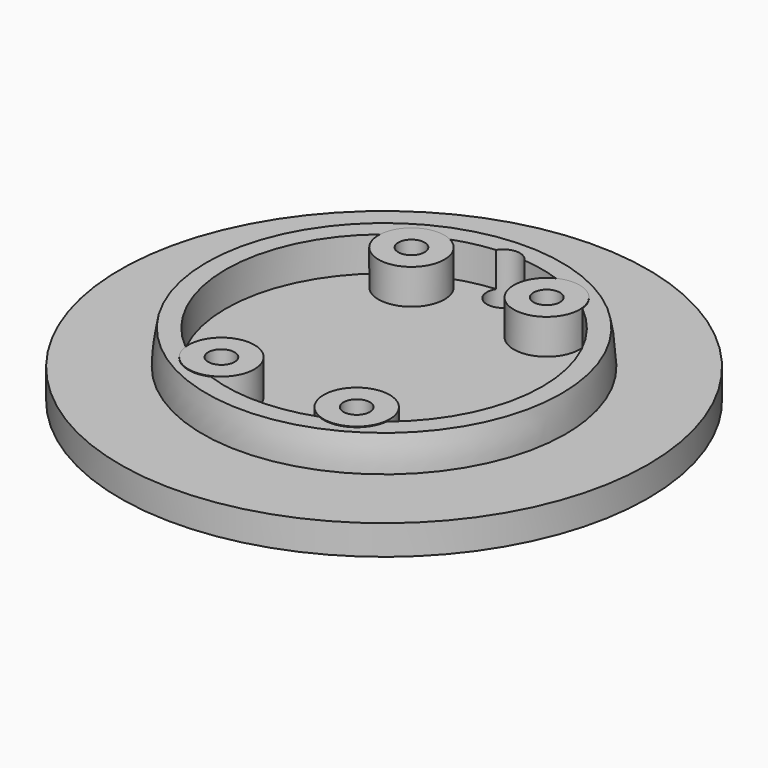
from build123d import *

# Parameters (mm, degrees)
CYLINDER165_R     = 2.5
CYLINDER165_DEPTH = 60
CYLINDER161_R     = 2
CYLINDER161_DEPTH = 10
CYLINDER162_R     = 2
CYLINDER162_DEPTH = 10
CYLINDER163_R     = 2
CYLINDER163_DEPTH = 10
CYLINDER164_R     = 2
CYLINDER164_DEPTH = 10
CYLINDER156_R     = 5.5
CYLINDER156_DEPTH = 1
CYLINDER157_R     = 5
CYLINDER157_DEPTH = 5.82
CYLINDER158_R     = 5
CYLINDER158_DEPTH = 5.82
CYLINDER159_R     = 5
CYLINDER159_DEPTH = 5.82
CYLINDER160_R     = 5
CYLINDER160_DEPTH = 5.82
CYLINDER154_R     = 40
CYLINDER154_DEPTH = 4.5
CYLINDER155_R     = 24
CYLINDER155_DEPTH = 7


with BuildPart() as wirecut004:
    # Cylinder165 → Cylinder165 (new body)
    with BuildSketch(Plane(origin=(134, 32.6, 20), x_dir=(1, 0, 0), z_dir=(0, 0, 1))):
        Circle(CYLINDER165_R)
    extrude(amount=CYLINDER165_DEPTH)


with BuildPart() as cylinder161:
    # Cylinder161 → Cylinder161 (new body)
    with BuildSketch(Plane(origin=(0, -21, 0), x_dir=(1, 0, 0), z_dir=(0, 0, 1))):
        Circle(CYLINDER161_R)
    extrude(amount=CYLINDER161_DEPTH)


with BuildPart() as m3heatsetcuts025:
    # Cylinder162 → Cylinder162 (new body)
    with BuildSketch(Plane(origin=(20.5, -21, 0), x_dir=(1, 0, 0), z_dir=(0, 0, 1))):
        Circle(CYLINDER162_R)
    extrude(amount=CYLINDER162_DEPTH)

    # Fusion103: union Cylinder161
    add(cylinder161.part)


with BuildPart() as m3heatsetcuts025_1:
    # Fusion103 placement: moved
    add(m3heatsetcuts025.part.moved(Location((-5, 39, 70))))


with BuildPart() as cylinder163:
    # Cylinder163 → Cylinder163 (new body)
    with BuildSketch(Plane(origin=(0, -21, 0), x_dir=(1, 0, 0), z_dir=(0, 0, 1))):
        Circle(CYLINDER163_R)
    extrude(amount=CYLINDER163_DEPTH)


with BuildPart() as lightmodulecut005:
    # Cylinder164 → Cylinder164 (new body)
    with BuildSketch(Plane(origin=(20.5, -21, 0), x_dir=(1, 0, 0), z_dir=(0, 0, 1))):
        Circle(CYLINDER164_R)
    extrude(amount=CYLINDER164_DEPTH)

    # Fusion104: union Cylinder163
    add(cylinder163.part)


with BuildPart() as lightmodulecut005_1:
    # Fusion104 placement: moved
    add(lightmodulecut005.part.moved(Location((-5, 3, 70))))

    # Fusion102: union m3HeatSetCuts025
    add(m3heatsetcuts025_1.part)


with BuildPart() as lightmodulecut005_2:
    # Fusion102 placement: moved
    add(lightmodulecut005_1.part.moved(Location((128.75, 10, -1))))

    # Fusion105: union WireCut004
    add(wirecut004.part)


with BuildPart() as cylinder156:
    # Cylinder156 → Cylinder156 (new body)
    with BuildSketch(Plane(origin=(134, 32.6, 65), x_dir=(1, 0, 0), z_dir=(0, 0, 1))):
        Circle(CYLINDER156_R)
    extrude(amount=CYLINDER156_DEPTH)


with BuildPart() as cylinder157:
    # Cylinder157 → Cylinder157 (new body)
    with BuildSketch(Plane(origin=(0, -21, 0), x_dir=(1, 0, 0), z_dir=(0, 0, 1))):
        Circle(CYLINDER157_R)
    extrude(amount=CYLINDER157_DEPTH)


with BuildPart() as m3heatsetcuts021:
    # Cylinder158 → Cylinder158 (new body)
    with BuildSketch(Plane(origin=(20.5, -21, 0), x_dir=(1, 0, 0), z_dir=(0, 0, 1))):
        Circle(CYLINDER158_R)
    extrude(amount=CYLINDER158_DEPTH)

    # Fusion097: union Cylinder157
    add(cylinder157.part)


with BuildPart() as m3heatsetcuts021_1:
    # Fusion097 placement: moved
    add(m3heatsetcuts021.part.moved(Location((-5, 39, 70))))


with BuildPart() as cylinder159:
    # Cylinder159 → Cylinder159 (new body)
    with BuildSketch(Plane(origin=(0, -21, 0), x_dir=(1, 0, 0), z_dir=(0, 0, 1))):
        Circle(CYLINDER159_R)
    extrude(amount=CYLINDER159_DEPTH)


with BuildPart() as m3heatsetcuts023:
    # Cylinder160 → Cylinder160 (new body)
    with BuildSketch(Plane(origin=(20.5, -21, 0), x_dir=(1, 0, 0), z_dir=(0, 0, 1))):
        Circle(CYLINDER160_R)
    extrude(amount=CYLINDER160_DEPTH)

    # Fusion098: union Cylinder159
    add(cylinder159.part)


with BuildPart() as m3heatsetcuts023_1:
    # Fusion098 placement: moved
    add(m3heatsetcuts023.part.moved(Location((-5, 3, 70))))

    # Fusion099: union m3HeatSetCuts021
    add(m3heatsetcuts021_1.part)


with BuildPart() as m3heatsetcuts023_2:
    # Fusion099 placement: moved
    add(m3heatsetcuts023_1.part.moved(Location((128.75, 10, -1))))


with BuildPart() as base014:
    # Cylinder154 → Cylinder154 (new body)
    with BuildSketch(Plane(origin=(136, 0, 65), x_dir=(1, 0, 0), z_dir=(0, 0, 1))):
        Circle(CYLINDER154_R)
    extrude(amount=CYLINDER154_DEPTH)


with BuildPart() as basecut003:
    # Cylinder155 → Cylinder155 (new body)
    with BuildSketch(Plane(origin=(5, 0, 74), x_dir=(1, 0, 0), z_dir=(0, 0, 1))):
        Circle(CYLINDER155_R)
    extrude(amount=CYLINDER155_DEPTH)


with BuildPart() as lightmodule009:
    # Sphere005 → Sphere005 (revolve)
    with BuildSketch(Plane(origin=(5, 0, 74), x_dir=(1, 0, 0), z_dir=(0, -1, 0))):
        with BuildLine():
            ThreePointArc((27.5, 0), (27.349352, 2.874533), (26.899059, 5.717571))
            Line((26.899059, 5.717571), (0, 5.717571))
            Line((0, 5.717571), (0, 0))
            Line((0, 0), (27.5, 0))
        make_face()
    revolve(axis=Axis((5, 0, 74), (0, 0, 1)))

    # Cut053: cut baseCut003
    add(basecut003.part, mode=Mode.SUBTRACT)


with BuildPart() as lightmodule009_1:
    # Cut053 placement: moved
    add(lightmodule009.part.moved(Location((131, 0, -5))))

    # Fusion100: union base014
    add(base014.part)


with BuildPart() as lightmodule009_2:
    # Fusion100 placement: moved
    add(lightmodule009_1.part.moved(Location((-2, 10, 0))))

    # Fusion101: union Cylinder156, m3HeatSetCuts023
    add(cylinder156.part)
    add(m3heatsetcuts023_2.part)

    # Cut054: cut lightModuleCut005
    add(lightmodulecut005_2.part, mode=Mode.SUBTRACT)


with BuildPart() as lightmodule009_3:
    # Cut054 placement: moved
    add(lightmodule009_2.part.moved(Location((-134, -384, -74))))


solid = lightmodule009_3.part
